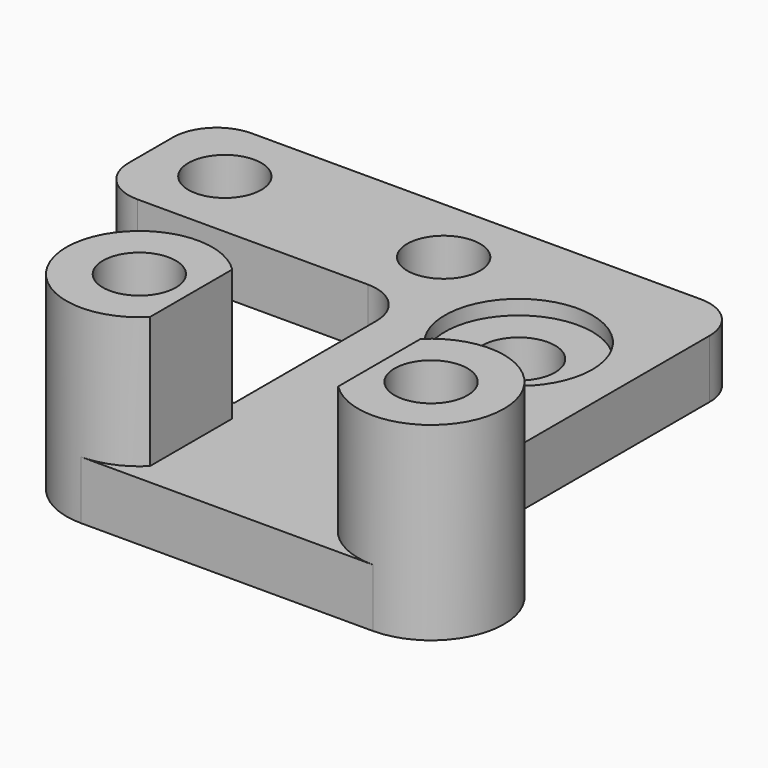
from build123d import *

# Parameters (mm, degrees)
SKETCH_R          = 2.5
PAD_DEPTH         = 4
SKETCH003_R       = 5
SKETCH003_R_2     = 2.5
PAD001_DEPTH      = 9
SKETCH002_W       = 12.9
SKETCH002_H       = 16.151024
POCKET_DEPTH      = 30.001
POCKET_DEPTH_BACK = 5.001
FILLET_R          = 3
SKETCH004_R       = 5.05
POCKET001_DEPTH   = 1


with BuildPart() as part:
    # Sketch → Pad (new body)
    with BuildSketch(Plane.XY):
        with BuildLine():
            Line((-10, -5), (10, -5))
            ThreePointArc((10, -5), (15, 0), (10, 5))
            Line((7.5, 5), (10, 5))
            Line((7.5, 30), (7.5, 5))
            Line((-7.5, 30), (7.5, 30))
            Line((-29.3, 30), (-7.5, 30))
            Line((-29.3, 20.2), (-29.3, 30))
            Line((-7.5, 20.2), (-29.3, 20.2))
            Line((-7.5, 5), (-7.5, 20.2))
            Line((-7.5, 5), (-10.000009, 5))
            ThreePointArc((-10.000009, 5), (-15, -4e-06), (-10, -5))
        make_face()
        with Locations((-10, 0)):
            Circle(SKETCH_R, mode=Mode.SUBTRACT)
        with Locations((10, 0)):
            Circle(SKETCH_R, mode=Mode.SUBTRACT)
        with Locations((0, 20)):
            Circle(SKETCH_R, mode=Mode.SUBTRACT)
        with Locations((-9.3, 25.2)):
            Circle(SKETCH_R, mode=Mode.SUBTRACT)
        with Locations((-24.3, 25.2)):
            Circle(SKETCH_R, mode=Mode.SUBTRACT)
    extrude(amount=PAD_DEPTH)

    # Sketch003 (on DatumPlane) → Pad001 (join)
    with BuildSketch(Plane.XY.offset(4)):
        with Locations((-10, 0)):
            Circle(SKETCH003_R)
        with Locations((-10, 0)):
            Circle(SKETCH003_R_2, mode=Mode.SUBTRACT)
        with Locations((10, 0)):
            Circle(SKETCH003_R)
        with Locations((10, 0)):
            Circle(SKETCH003_R_2, mode=Mode.SUBTRACT)
    extrude(amount=PAD001_DEPTH)

    # Sketch002 → Pocket (cut, two sides)
    with BuildSketch(Plane.XZ) as pocket_sk:
        with Locations((0, 12.075512)):
            Rectangle(SKETCH002_W, SKETCH002_H)
    extrude(amount=-POCKET_DEPTH, mode=Mode.SUBTRACT)
    extrude(pocket_sk.sketch, amount=POCKET_DEPTH_BACK, mode=Mode.SUBTRACT)

    # Fillet
    fillet_edges = [part.edges().sort_by_distance(p)[0] for p in [
        (-29.3, 20.2, 2),
        (-29.3, 30, 2),
        (-7.5, 20.2, 2),
        (7.5, 30, 2),
    ]]
    fillet(fillet_edges, radius=FILLET_R)

    # Sketch004 (on Face5 of Fillet) → Pocket001 (cut)
    with BuildSketch(Plane.XY.offset(4)):
        with Locations((0, 20)):
            Circle(SKETCH004_R)
    extrude(amount=-POCKET001_DEPTH, mode=Mode.SUBTRACT)


solid = part.part
